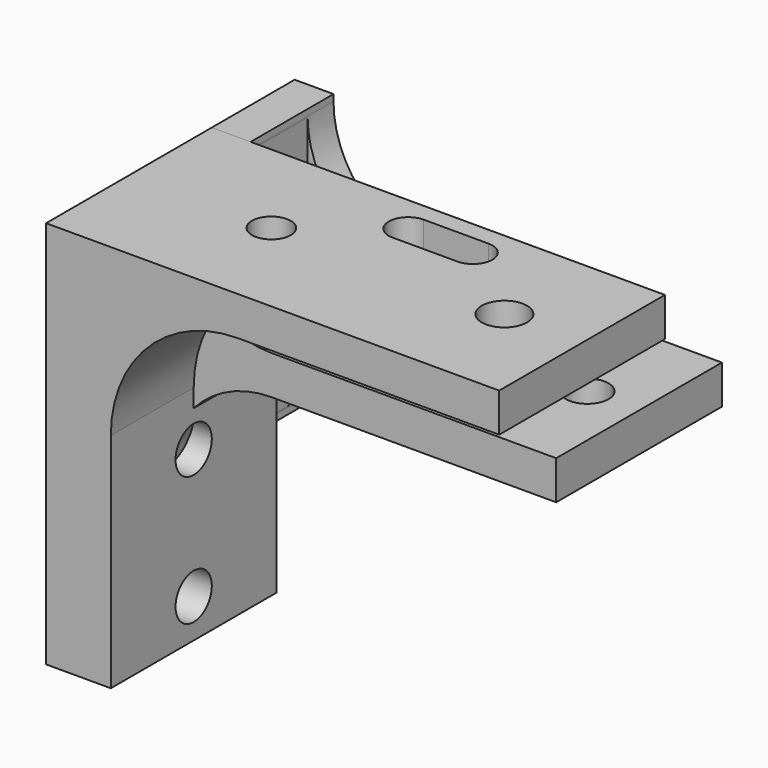
from build123d import *

# Parameters (mm, degrees)
PAD_DEPTH       = 8
SKETCH001_R     = 1.65
POCKET_DEPTH    = 11.501
SKETCH002_R     = 1.75
POCKET001_DEPTH = 33.001
SKETCH004_W     = 7.917855
SKETCH004_H     = 11
POCKET003_DEPTH = 8
PAD001_DEPTH    = 16
SKETCH006_R     = 1.5
SKETCH006_R_2   = 1.75
POCKET004_DEPTH = 3.001
SKETCH007_R     = 1.75
POCKET005_DEPTH = 5.001
SKETCH003_R     = 4.75
POCKET002_DEPTH = 3


with BuildPart() as touch_bracket_middle:
    # Sketch → Pad (new body, symmetric)
    with BuildSketch(Plane.XZ):
        with BuildLine():
            Line((0, -20), (0, 0))
            Line((3, 0), (0, 0))
            Line((3, -0.5), (3, 0))
            ThreePointArc((3, -0.5), (5.3431457505, -6.1568542495), (11, -8.5))
            Line((33, -8.5), (11, -8.5))
            Line((33, -8.5), (33, -11.5))
            Line((33, -11.5), (11, -11.5))
            ThreePointArc((11, -11.5), (5.3431457505, -13.8431457505), (3, -19.5))
            Line((3, -19.5), (3, -20))
            Line((3, -20), (0, -20))
        make_face()
    extrude(amount=PAD_DEPTH, both=True)

    # Sketch001 (on Face2 of Pad) → Pocket (cut, through all)
    with BuildSketch(Plane(origin=(0, 0, -11.5), x_dir=(1, 0, 0), z_dir=(0, 0, -1))):
        with Locations((11, 0)):
            Circle(SKETCH001_R)
        with Locations((29, 0)):
            Circle(SKETCH001_R)
        with Locations((20, 0)):
            Circle(SKETCH001_R)
        with BuildLine():
            ThreePointArc((17.5, 7.27), (16, 5.77), (17.5, 4.27))
            Line((17.5, 4.27), (22.5, 4.27))
            ThreePointArc((22.5, 4.27), (24, 5.77), (22.5, 7.27))
            Line((22.5, 7.27), (17.5, 7.27))
        make_face()
    extrude(amount=-POCKET_DEPTH, mode=Mode.SUBTRACT)

    # Sketch002 (on Face17 of Pocket) → Pocket001 (cut, through all)
    with BuildSketch(Plane(origin=(0, 0, 0), x_dir=(0, 0, -1), z_dir=(-1, 0, 0))):
        with Locations((15, 0)):
            Circle(SKETCH002_R)
        with Locations((5, 0)):
            Circle(SKETCH002_R)
    extrude(amount=-POCKET001_DEPTH, mode=Mode.SUBTRACT)

    # Sketch004 → Pocket003 (cut)
    with BuildSketch(Plane(origin=(11, 0, 0), x_dir=(0, 0, 1), z_dir=(1, 0, 0))):
        with Locations((-4.5410725, 0)):
            Rectangle(SKETCH004_W, SKETCH004_H)
        with Locations((-15.4589275, 0)):
            Rectangle(SKETCH004_W, SKETCH004_H)
    extrude(amount=-POCKET003_DEPTH, mode=Mode.SUBTRACT)


with BuildPart() as touch_bracket_high:
    # Sketch005 → Pad001 (new body)
    with BuildSketch(Plane.XZ):
        with BuildLine():
            Line((0, -30), (0, 0))
            Line((0, 0), (35, 0))
            Line((35, 0), (35, -3))
            Line((35, -3), (14.8109245, -3))
            ThreePointArc((14.8109245, -3), (7.8735532563, -5.8735532563), (5, -12.8109245))
            Line((5, -12.8109245), (5, -30))
            Line((5, -30), (0, -30))
        make_face()
    extrude(amount=PAD001_DEPTH)

    # Sketch006 (on Face4 of Pad001) → Pocket004 (cut, through all)
    with BuildSketch(Plane(origin=(0, 0, -3), x_dir=(1, 0, 0), z_dir=(0, 0, -1))):
        with Locations((11, 8)):
            Circle(SKETCH006_R)
        with Locations((29, 8)):
            Circle(SKETCH006_R_2)
        with BuildLine():
            ThreePointArc((17.5, 4.4137121897), (16, 2.9137121897), (17.5, 1.4137121897))
            Line((17.5, 1.4137121897), (22.5, 1.4137121897))
            ThreePointArc((22.5, 1.4137121897), (24, 2.9137121897), (22.5, 4.4137121897))
            Line((22.5, 4.4137121897), (17.5, 4.4137121897))
        make_face()
    extrude(amount=-POCKET004_DEPTH, mode=Mode.SUBTRACT)

    # Sketch007 (on Face6 of Pocket004) → Pocket005 (cut, through all)
    with BuildSketch(Plane(origin=(5, 0, 0), x_dir=(0, 0, 1), z_dir=(1, 0, 0))):
        with Locations((-17, 8)):
            Circle(SKETCH007_R)
        with Locations((-27, 8)):
            Circle(SKETCH007_R)
    extrude(amount=-POCKET005_DEPTH, mode=Mode.SUBTRACT)

    # Sketch003 → Pocket002 (cut)
    with BuildSketch(Plane.YZ):
        with Locations((-7.5, -5.5)):
            Circle(SKETCH003_R)
    extrude(amount=POCKET002_DEPTH, mode=Mode.SUBTRACT)


solid = Compound([touch_bracket_middle.part, touch_bracket_high.part])
